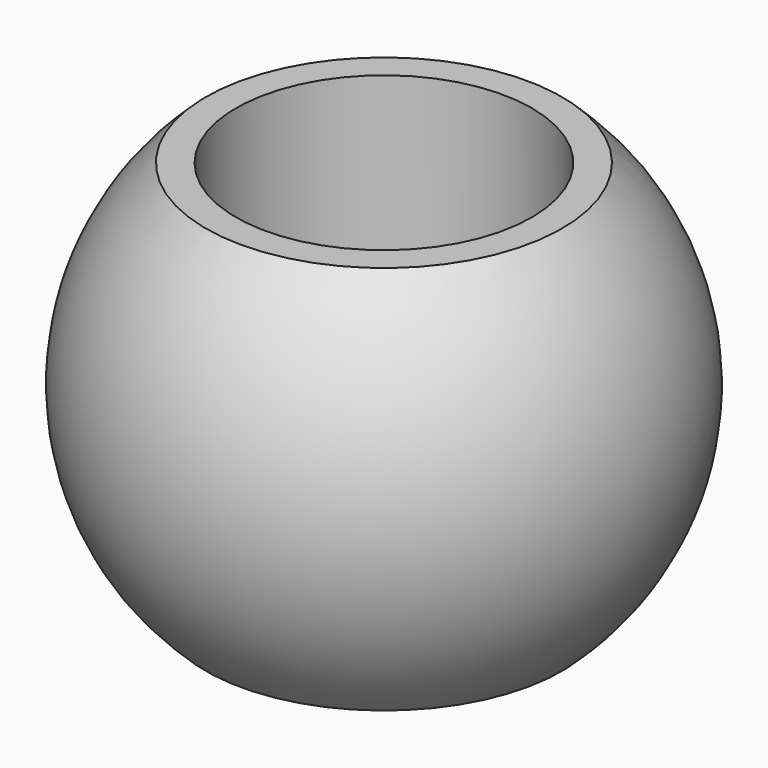
from build123d import *

# Parameters (mm, degrees)
F2_W     = 40
F2_H     = 10
F3_DEPTH = 12.5
F4_R     = 8
F5_DEPTH = 24.811


with BuildPart() as f1:
    # F0 (on Top) → F1 (revolve)
    with BuildSketch(Plane.XY):
        with BuildLine():
            Line((-14.275, 0), (14.275, 0))
            ThreePointArc((14.275, 0), (0, 14.275), (-14.275, 0))
        make_face()
    revolve(axis=Axis((0, 0, 0), (1, 0, 0)))

    # F2 (on Front) → F3 (cut, symmetric)
    with BuildSketch(Plane.XZ):
        with Locations((0, 15.535)):
            Rectangle(F2_W, F2_H)
        with Locations((0, -15.535)):
            Rectangle(F2_W, F2_H)
    extrude(amount=F3_DEPTH, both=True, mode=Mode.SUBTRACT)

    # F4 (on face) → F5 (cut, through all)
    with BuildSketch(Plane.XY.offset(10.535)):
        Circle(F4_R)
    extrude(amount=-F5_DEPTH, mode=Mode.SUBTRACT)


solid = f1.part
